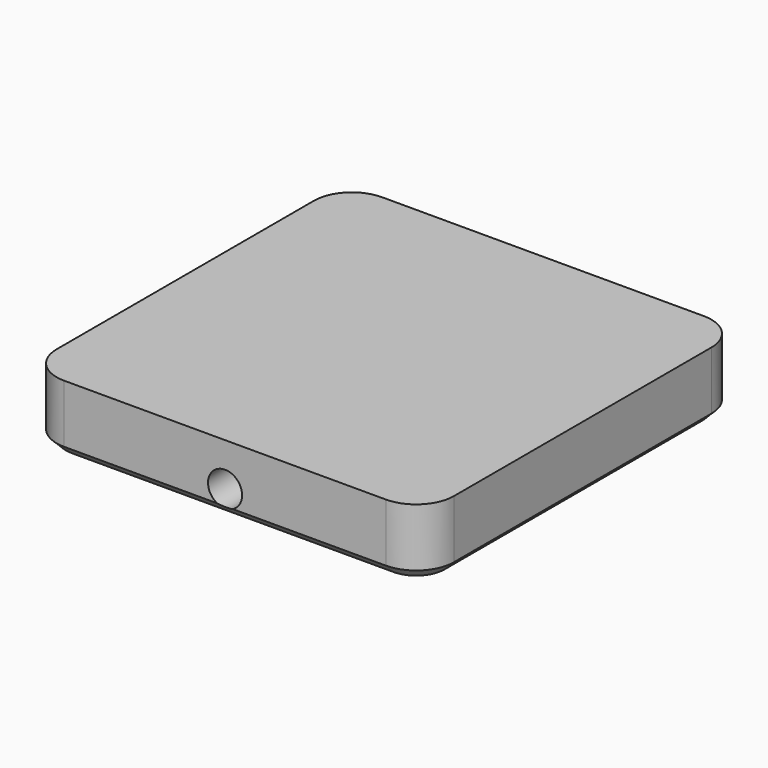
from build123d import *

# Parameters (mm, degrees)
PAD031_DEPTH           = 7.15
CHAMFER003_SIZE        = 1
SKETCH126_R            = 1.8
POCKET033_DEPTH        = 5
SKETCH135_R            = 1.8
POCKET038_DEPTH        = 5
LINEARPATTERN032_COUNT = 1
LINEARPATTERN032_PITCH = 0
LINEARPATTERN033_COUNT = 1
LINEARPATTERN033_PITCH = 0
SKETCH136_R            = 1.8
POCKET039_DEPTH        = 5
SKETCH137_R            = 1.8
POCKET040_DEPTH        = 5


with BuildPart() as part:
    # Sketch127 → Pad031 (new body)
    with BuildSketch(Plane.XY):
        with BuildLine():
            ThreePointArc((4, 42), (1.171573, 40.828427), (0, 38))
            Line((0, 4), (0, 38))
            ThreePointArc((0, 4), (1.171573, 1.171573), (4, 0))
            Line((38, 0), (4, 0))
            ThreePointArc((38, 0), (40.828427, 1.171573), (42, 4))
            Line((42, 38), (42, 4))
            ThreePointArc((42, 38), (40.828427, 40.828427), (38, 42))
            Line((4, 42), (38, 42))
        make_face()
    extrude(amount=PAD031_DEPTH)

    # Chamfer003
    chamfer003_edges = [part.edges().sort_by_distance(p)[0] for p in [
        (1.171573, 1.171573, 0),
        (0, 21, 0),
        (21, 0, 0),
        (40.828427, 1.171573, 0),
        (42, 21, 0),
        (40.828427, 40.828427, 0),
        (21, 42, 0),
        (1.171573, 40.828427, 0),
    ]]
    chamfer(chamfer003_edges, length=CHAMFER003_SIZE)

    # Sketch126 → Pocket033 (cut)
    with BuildSketch(Plane.XZ):
        with Locations((21, 2.6)):
            Circle(SKETCH126_R)
    pocket033 = extrude(amount=-POCKET033_DEPTH, mode=Mode.SUBTRACT)

    # Sketch135 → Pocket038 (cut)
    with BuildSketch(Plane.YZ):
        with Locations((21, 2.6)):
            Circle(SKETCH135_R)
    pocket038 = extrude(amount=POCKET038_DEPTH, mode=Mode.SUBTRACT)

    # LinearPattern032: Pocket033 ×1
    with Locations(*[(i * LINEARPATTERN032_PITCH, 0, 0) for i in range(1, LINEARPATTERN032_COUNT)]):
        add(pocket033, mode=Mode.SUBTRACT)

    # LinearPattern033: Pocket038 ×1
    with Locations(*[(0, i * LINEARPATTERN033_PITCH, 0) for i in range(1, LINEARPATTERN033_COUNT)]):
        add(pocket038, mode=Mode.SUBTRACT)

    # Sketch136 → Pocket039 (cut)
    with BuildSketch(Plane.XZ.offset(-1.5)):
        with Locations((21, 2.6)):
            Circle(SKETCH136_R)
    extrude(amount=-POCKET039_DEPTH, mode=Mode.SUBTRACT)

    # Sketch137 → Pocket040 (cut)
    with BuildSketch(Plane.YZ.offset(1.5)):
        with Locations((21, 2.6)):
            Circle(SKETCH137_R)
    extrude(amount=POCKET040_DEPTH, mode=Mode.SUBTRACT)


solid = part.part
